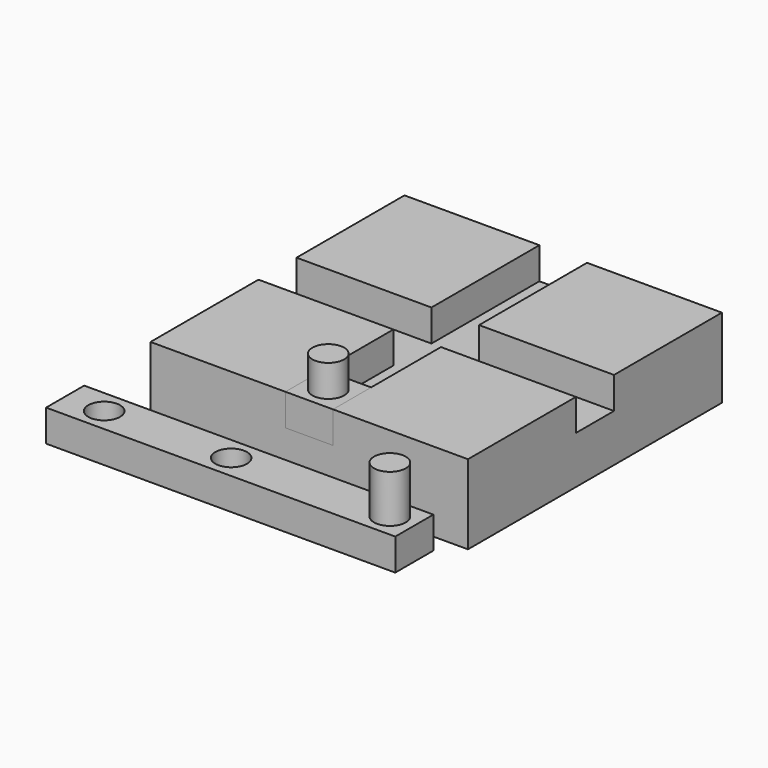
from build123d import *

# Parameters (mm, degrees)
F0_W      = 100
F0_H      = 100
F1_DEPTH  = 25
F2_W      = 15
F2_H      = 20
F3_DEPTH  = 100
F4_W      = 15
F4_H      = 20
F5_DEPTH  = 100
F6_W      = 15
F6_H      = 15
F7_DEPTH  = 10
F8_R      = 5
F9_DEPTH  = 10
F10_W     = 110
F10_H     = 15
F10_R     = 5
F11_DEPTH = 10
F12_DEPTH = 25


with BuildPart() as f1:
    # F0 (on Top) → F1 (new body)
    with BuildSketch(Plane.XY):
        Rectangle(F0_W, F0_H)
    extrude(amount=F1_DEPTH)

    # F2 (on face) → F3 (cut)
    with BuildSketch(Plane.YZ.offset(50)):
        with Locations((0, 25)):
            Rectangle(F2_W, F2_H)
    extrude(amount=-F3_DEPTH, mode=Mode.SUBTRACT)

    # F4 (on face) → F5 (cut)
    with BuildSketch(Plane.XZ.offset(50)):
        with Locations((0, 25)):
            Rectangle(F4_W, F4_H)
    extrude(amount=-F5_DEPTH, mode=Mode.SUBTRACT)


with BuildPart() as f7:
    # F6 (on face) → F7 (new body)
    with BuildSketch(Plane.XY.offset(15)):
        with Locations((0, -42.5)):
            Rectangle(F6_W, F6_H)
    extrude(amount=F7_DEPTH)

    # F8 (on face) → F9 (join)
    with BuildSketch(Plane.XY.offset(25)):
        with Locations((0, -42.5)):
            Circle(F8_R)
    extrude(amount=F9_DEPTH)


with BuildPart() as f11:
    # F10 (on Top) → F11 (new body)
    with BuildSketch(Plane.XY):
        with Locations((-11.21485, -63.355587)):
            Rectangle(F10_W, F10_H)
        with Locations((-13.91485, -63.355587)):
            Circle(F10_R, mode=Mode.SUBTRACT)
        with Locations((-53.91485, -63.355587)):
            Circle(F10_R, mode=Mode.SUBTRACT)
        with Locations((36.08515, -63.355587)):
            Circle(F10_R, mode=Mode.SUBTRACT)
        with Locations((36.08515, -63.355587)):
            Circle(F10_R)
    extrude(amount=F11_DEPTH)

    # F10 (on Top) → F12 (join)
    with BuildSketch(Plane.XY):
        with Locations((36.08515, -63.355587)):
            Circle(F10_R)
    extrude(amount=F12_DEPTH)


solid = Compound([f1.part, f7.part, f11.part])
